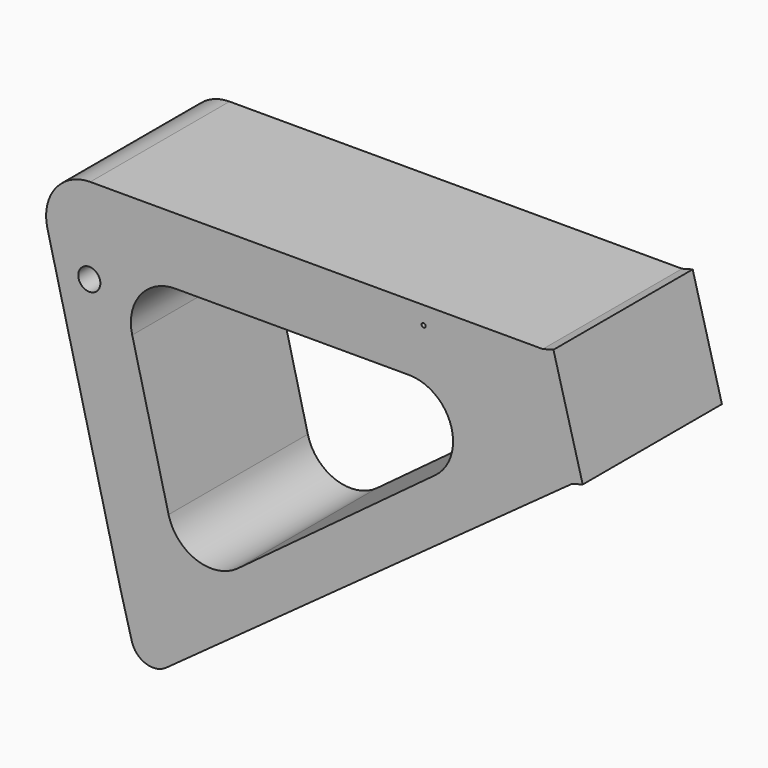
from build123d import *

# Parameters (mm, degrees)
F0_R          = 12.7
F0_R_2        = 2.329828
F1_DEPTH      = 100
F1_DEPTH_BACK = 100
F2_DEPTH      = 100
F2_DEPTH_BACK = 100


with BuildPart() as f1:
    # F0 (on Front) → F1 (new body, two sides)
    with BuildSketch(Plane.XZ) as f1_sk:
        with BuildLine():
            Line((55.618293, 28.310391), (-464.398381, 28.310391))
            ThreePointArc((-464.398381, 28.310391), (-504.420523, 8.79726), (-513.696314, -34.751493))
            Line((-513.696314, -34.751493), (-429.987808, -371.294931))
            Line((-429.987808, -371.294931), (-416.70069, -420.883132))
            ThreePointArc((-416.70069, -420.883132), (-400.664207, -438.245365), (-377.269647, -434.882254))
            Line((-377.269647, -434.882254), (89.223358, -97.105419))
            Line((89.223358, -97.105419), (55.618293, 28.310391))
        make_face()
        with BuildLine():
            ThreePointArc((-416.221325, -110.951493), (-406.945534, -67.40274), (-366.923392, -47.889609))
            Line((-366.923392, -47.889609), (-98.274878, -47.889609))
            ThreePointArc((-98.274878, -47.889609), (-50.035166, -82.765723), (-68.032212, -139.506532))
            Line((-68.032212, -139.506532), (-294.875206, -307.582328))
            ThreePointArc((-294.875206, -307.582328), (-342.282468, -314.577711), (-374.415804, -279.027288))
            Line((-374.415804, -279.027288), (-416.221325, -110.951493))
        make_face(mode=Mode.SUBTRACT)
        with Locations((-465.52332, -70.581966)):
            Circle(F0_R, mode=Mode.SUBTRACT)
        with Locations((-81.35488, 7.763915)):
            Circle(F0_R_2, mode=Mode.SUBTRACT)
    extrude(amount=F1_DEPTH)
    extrude(f1_sk.sketch, amount=-F1_DEPTH_BACK)

    # F0 (on Front) → F2 (join, two sides)
    with BuildSketch(Plane.XZ) as f2_sk:
        Polygon((67.885548, 31.597392), (55.618293, 28.310391), (89.223358, -97.105419), (101.490613, -93.818418), align=None)
    extrude(amount=F2_DEPTH)
    extrude(f2_sk.sketch, amount=-F2_DEPTH_BACK)


solid = f1.part
